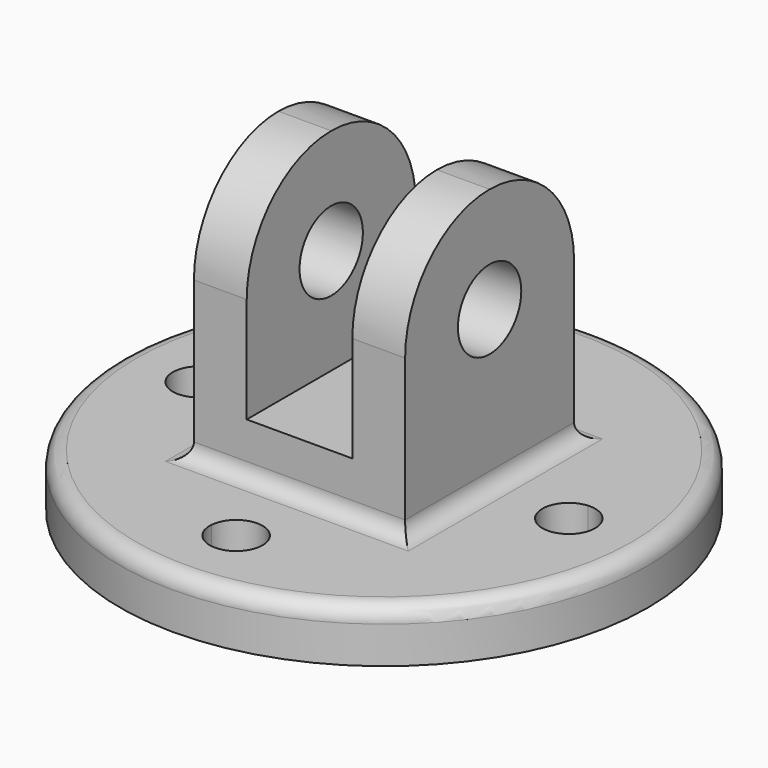
from build123d import *

# Parameters (mm, degrees)
F0_R     = 63.5
F1_DEPTH = 12.7
F2_W     = 25.4
F2_H     = 50.8
F3_DEPTH = 12.7
F2_W_2   = 12.7
F4_DEPTH = 63.5
F6_DEPTH = 88.901
F5_R     = 9.525
F7_DEPTH = 88.901
F8_R     = 3.81


with BuildPart() as f1:
    # F0 (on Top) → F1 (new body)
    with BuildSketch(Plane.XY):
        Circle(F0_R)
        with BuildLine():
            ThreePointArc((-6.33378, 43.996429), (-0.226931, 50.795944), (6.35, 44.45))
            ThreePointArc((6.35, 44.45), (6.345944, 44.223069), (6.33378, 43.996429))
            ThreePointArc((6.33378, 43.996429), (31.430896, 31.430896), (43.996429, 6.33378))
            ThreePointArc((43.996429, 6.33378), (48.776796, 4.647724), (50.8, 0))
            ThreePointArc((50.8, 0), (48.776796, -4.647724), (43.996429, -6.33378))
            ThreePointArc((43.996429, -6.33378), (31.430896, -31.430896), (6.33378, -43.996429))
            ThreePointArc((6.33378, -43.996429), (6.345944, -44.223069), (6.35, -44.45))
            ThreePointArc((6.35, -44.45), (-0.226931, -50.795944), (-6.33378, -43.996429))
            ThreePointArc((-6.33378, -43.996429), (-31.430896, -31.430896), (-43.996429, -6.33378))
            ThreePointArc((-43.996429, -6.33378), (-50.8, 0), (-43.996429, 6.33378))
            ThreePointArc((-43.996429, 6.33378), (-31.430896, 31.430896), (-6.33378, 43.996429))
        make_face(mode=Mode.SUBTRACT)
        with BuildLine():
            ThreePointArc((6.33378, 43.996429), (0, 38.1), (-6.33378, 43.996429))
            ThreePointArc((-6.33378, 43.996429), (-31.430896, 31.430896), (-43.996429, 6.33378))
            ThreePointArc((-43.996429, 6.33378), (-39.802276, 4.326796), (-38.1, 0))
            ThreePointArc((-38.1, 0), (-39.802276, -4.326796), (-43.996429, -6.33378))
            ThreePointArc((-43.996429, -6.33378), (-31.430896, -31.430896), (-6.33378, -43.996429))
            ThreePointArc((-6.33378, -43.996429), (0, -38.1), (6.33378, -43.996429))
            ThreePointArc((6.33378, -43.996429), (31.430896, -31.430896), (43.996429, -6.33378))
            ThreePointArc((43.996429, -6.33378), (38.1, 0), (43.996429, 6.33378))
            ThreePointArc((43.996429, 6.33378), (31.430896, 31.430896), (6.33378, 43.996429))
        make_face()
    extrude(amount=F1_DEPTH)

    # F2 (on face) → F3 (join)
    with BuildSketch(Plane.XY.offset(12.7)):
        Rectangle(F2_W, F2_H)
    extrude(amount=F3_DEPTH)

    # F2 (on face) → F4 (join)
    with BuildSketch(Plane.XY.offset(12.7)):
        with Locations((-19.05, 0)):
            Rectangle(F2_W_2, F2_H)
        with Locations((19.05, 0)):
            Rectangle(F2_W_2, F2_H)
    extrude(amount=F4_DEPTH)

    # F5 (on face) → F6 (cut, through all)
    with BuildSketch(Plane.YZ.offset(25.4)):
        with BuildLine():
            Line((25.4, 76.2), (0, 76.2))
            ThreePointArc((0, 76.2), (17.960512, 68.760512), (25.4, 50.8))
            Line((25.4, 50.8), (25.4, 76.2))
        make_face()
        with BuildLine():
            ThreePointArc((-25.4, 50.8), (-17.960512, 68.760512), (0, 76.2))
            Line((0, 76.2), (-25.4, 76.2))
            Line((-25.4, 76.2), (-25.4, 50.8))
        make_face()
    extrude(amount=-F6_DEPTH, mode=Mode.SUBTRACT)

    # F5 (on face) → F7 (cut, through all)
    with BuildSketch(Plane.YZ.offset(25.4)):
        with Locations((0, 50.8)):
            Circle(F5_R)
    extrude(amount=-F7_DEPTH, mode=Mode.SUBTRACT)

    # F8
    f8_edges = [f1.edges().sort_by_distance(p)[0] for p in [
        (-63.5, 0, 12.7),
        (0, -25.4, 12.7),
        (25.4, 0, 12.7),
        (0, 25.4, 12.7),
        (-25.4, 0, 12.7),
    ]]
    fillet(f8_edges, radius=F8_R)


solid = f1.part
